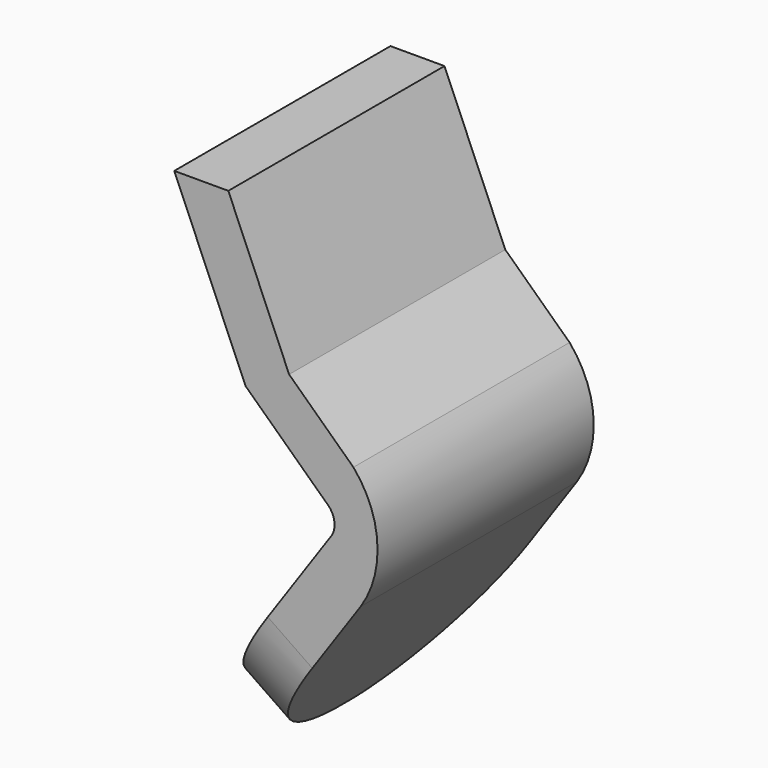
from build123d import *

# Parameters (mm, degrees)
PAD008_DEPTH            = 0.45
BODY008_PLACEMENT_ANGLE = 34.55
PAD006_DEPTH            = 2


with BuildPart() as body008:
    # Sketch010 → Pad008 (new body)
    with BuildSketch(Plane.YZ):
        with BuildLine():
            ThreePointArc((-1, 1.01), (0, 0.01), (1, 1.010001))
            Line((1, 0), (1, 1.010001))
            Line((-1, 0), (1, 0))
            Line((-1, 1.01), (-1, 0))
        make_face()
    extrude(amount=PAD008_DEPTH)


with BuildPart() as body008_1:
    # Body008 placement: moved
    add(body008.part.moved(Location((4.6, 0, -3.5))).rotate(Axis((4.6, 0, -3.5), (0, 1, 0)), BODY008_PLACEMENT_ANGLE))


with BuildPart() as cut003:
    # Sketch008 → Pad006 (new body)
    with BuildSketch(Plane.XZ):
        with BuildLine():
            Line((4.5, 0), (4.9, 0))
            Line((4.9, 0), (5.35, -1.05))
            Line((5.35, -1.05), (5.82594, -1.5))
            ThreePointArc((5.879401, -2.39), (6.003164, -1.93596), (5.82594, -1.5))
            Line((4.956036, -3.727277), (5.879401, -2.39))
            Line((4.626878, -3.5), (4.956036, -3.727277))
            Line((5.67, -1.989282), (4.626878, -3.5))
            ThreePointArc((5.67, -1.989282), (5.68283, -1.887703), (5.63, -1.8))
            Line((5.027143, -1.23), (5.63, -1.8))
            Line((4.5, 0), (5.027143, -1.23))
        make_face()
    extrude(amount=PAD006_DEPTH)


with BuildPart() as cut003_1:
    # Body006 placement: moved
    add(cut003.part.moved(Location((0, 1, 0))))

    # Cut003: cut Body008
    add(body008_1.part, mode=Mode.SUBTRACT)


solid = cut003_1.part
